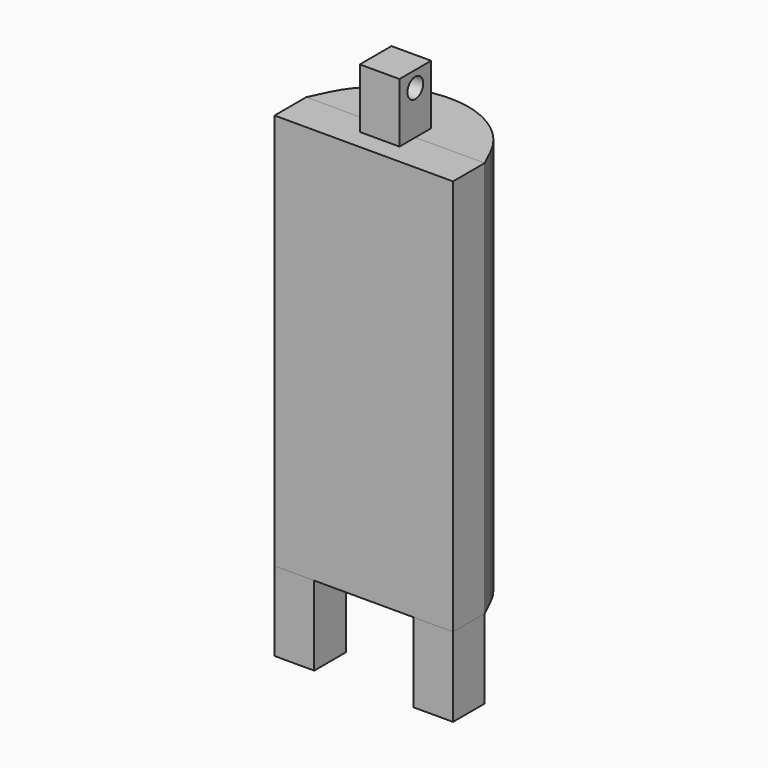
from build123d import *

# Parameters (mm, degrees)
F0_W      = 10
F0_H      = 10
F1_DEPTH  = 20
F3_DEPTH  = 100
F4_R      = 22.610669
F3_FACE_W = 45
F3_FACE_H = 100
F5_DEPTH  = 10
F6_W      = 10
F6_H      = 5
F7_DEPTH  = 15
F8_R      = 2.5
F9_DEPTH  = 25


with BuildPart() as f1:
    # F0 (on Top) → F1 (new body)
    with BuildSketch(Plane.XY):
        with Locations((17.5, 5)):
            Rectangle(F0_W, F0_H)
        with Locations((-17.5, 5)):
            Rectangle(F0_W, F0_H)
    extrude(amount=F1_DEPTH)


with BuildPart() as f3:
    # F2 (on face) → F3 (new body)
    with BuildSketch(Plane.XY.offset(20)):
        Polygon((0, 57.602007), (-22.5, 10), (-12.5, 10), (22.5, 10), align=None)
    extrude(amount=F3_DEPTH)

    # F4
    f4_edges = [f3.edges().sort_by_distance(p)[0] for p in [
        (0, 57.602007, 70),
    ]]
    fillet(f4_edges, radius=F4_R)


with BuildPart() as f5:
    # F3_face (on face) → F5 (new body)
    with BuildSketch(Plane(origin=(0, 10, 70), x_dir=(1, 0, 0), z_dir=(0, -1, 0))):
        Rectangle(F3_FACE_W, F3_FACE_H)
    extrude(amount=F5_DEPTH)


with BuildPart() as f7:
    # F6 (on face) → F7 (new body)
    with BuildSketch(Plane.XY.offset(120)):
        with Locations((0, 12.5)):
            Rectangle(F6_W, F6_H)
        with Locations((0, 7.5)):
            Rectangle(F6_W, F6_H)
    extrude(amount=F7_DEPTH)

    # F8 (on face) → F9 (cut)
    with BuildSketch(Plane.YZ.offset(5)):
        with Locations((10, 131)):
            Circle(F8_R)
    extrude(amount=-F9_DEPTH, mode=Mode.SUBTRACT)


solid = Compound([f1.part, f3.part, f5.part, f7.part])
